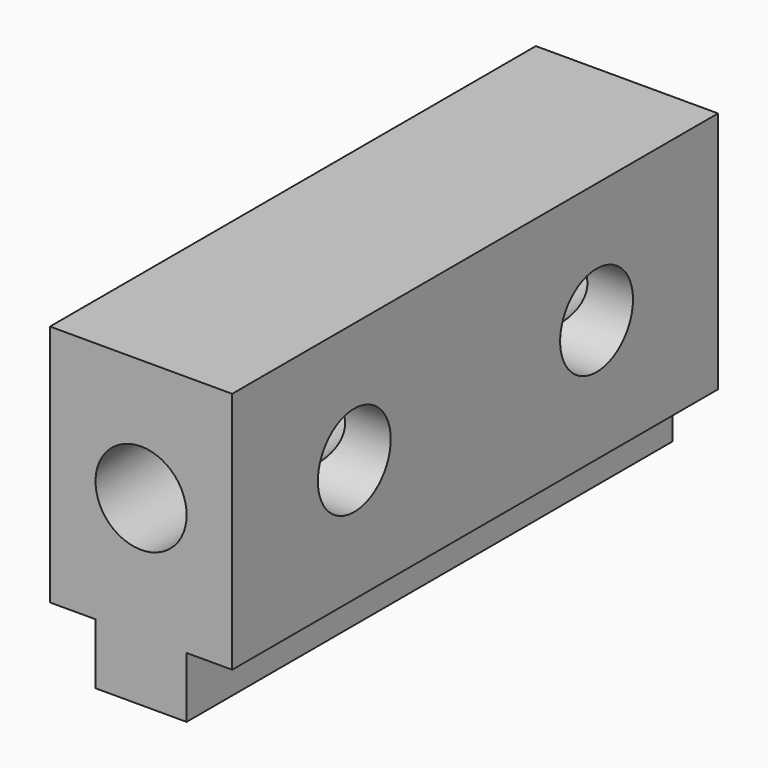
from build123d import *

# Parameters (mm, degrees)
F0_R     = 9.525
F1_DEPTH = 127
F2_R     = 9.525
F3_DEPTH = 129.794
F4_DEPTH = 104.14


with BuildPart() as f1:
    # F0 (on Front) → F1 (new body)
    with BuildSketch(Plane.XZ):
        Polygon((-14.114713, 40.939018), (-52.214713, 40.939018), (-52.214713, 15.539018), (-52.214713, -9.860982), (-42.689713, -9.860982), (-42.689713, -22.560982), (-23.639713, -22.560982), (-23.639713, -9.860982), (-14.114713, -9.860982), align=None)
        with Locations((-33.164713, 15.539018)):
            Circle(F0_R, mode=Mode.SUBTRACT)
    extrude(amount=F1_DEPTH)

    # F2 (on Right) → F3 (cut)
    with BuildSketch(Plane.YZ):
        with Locations((-95.083439, 15.739672)):
            Circle(F2_R)
    extrude(amount=-F3_DEPTH, mode=Mode.SUBTRACT)

    # F2 (on Right) → F4 (cut)
    with BuildSketch(Plane.YZ):
        with Locations((-31.75, 15.739672)):
            Circle(F2_R)
    extrude(amount=-F4_DEPTH, mode=Mode.SUBTRACT)


solid = f1.part
